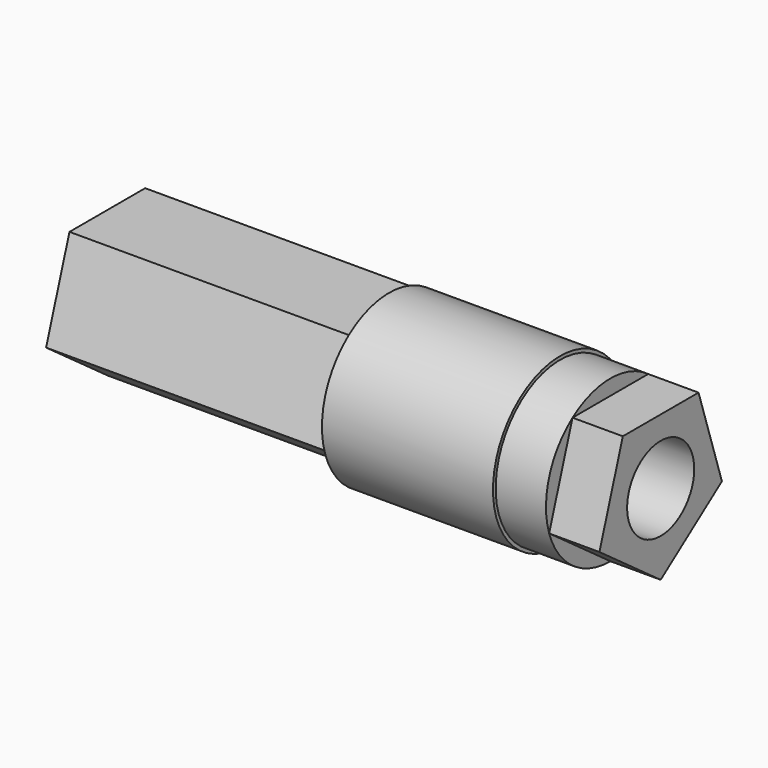
from build123d import *

# Parameters (mm, degrees)
F0_R          = 5
F1_DEPTH      = 10.2
F2_R          = 4.8
F3_DEPTH      = 3
F5_DEPTH      = 3
F5_DEPTH_BACK = 30
F6_R          = 2.5
F7_DEPTH      = 28


with BuildPart() as f1:
    # F0 (on Right) → F1 (new body)
    with BuildSketch(Plane.YZ):
        Circle(F0_R)
    extrude(amount=-F1_DEPTH)

    # F2 (on face) → F3 (join)
    with BuildSketch(Plane.YZ):
        Circle(F2_R)
    extrude(amount=F3_DEPTH)

    # F4 (on face) → F5 (join, two sides)
    with BuildSketch(Plane.YZ.offset(3)) as f5_sk:
        Polygon((-4.565071, -1.483282), (0, -4.8), (4.565071, -1.483282), (2.821369, 3.883282), (-2.821369, 3.883282), align=None)
    extrude(amount=F5_DEPTH)
    extrude(f5_sk.sketch, amount=-F5_DEPTH_BACK)

    # F6 (on face) → F7 (cut)
    with BuildSketch(Plane.YZ.offset(6)):
        Circle(F6_R)
    extrude(amount=-F7_DEPTH, mode=Mode.SUBTRACT)


solid = f1.part
